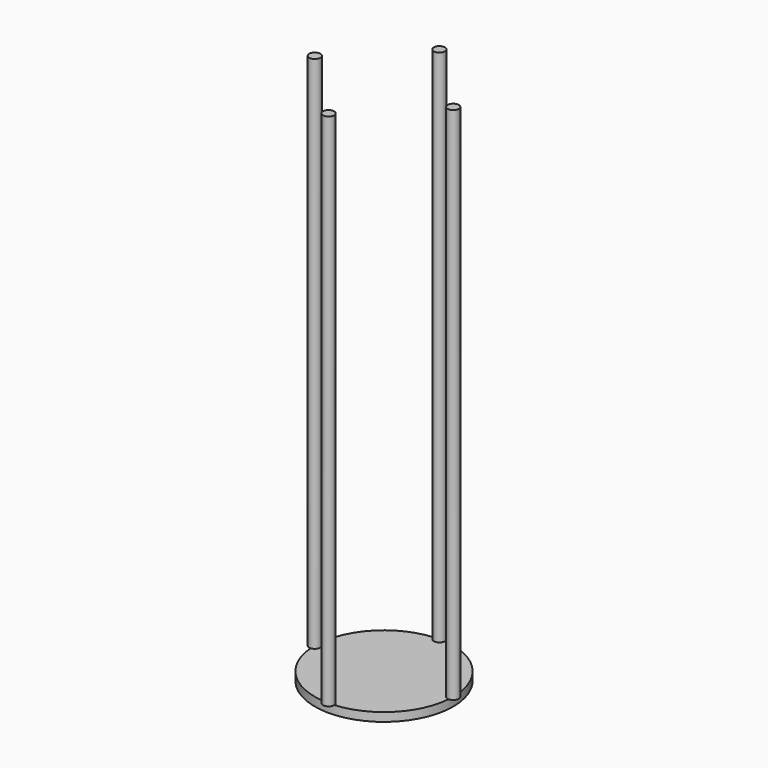
from build123d import *

# Parameters (mm, degrees)
F0_R     = 40
F1_DEPTH = 5
F2_R     = 3.2
F3_DEPTH = 300


with BuildPart() as f1:
    # F0 (on Top) → F1 (new body)
    with BuildSketch(Plane.XY):
        Circle(F0_R)
    extrude(amount=F1_DEPTH)

    # F2 (on face) → F3 (join)
    with BuildSketch(Plane.XY.offset(5)):
        with Locations((0, 40)):
            Circle(F2_R)
        with Locations((-40, 0)):
            Circle(F2_R)
        with Locations((0, -40)):
            Circle(F2_R)
        with Locations((40, 0)):
            Circle(F2_R)
    extrude(amount=F3_DEPTH)


solid = f1.part
